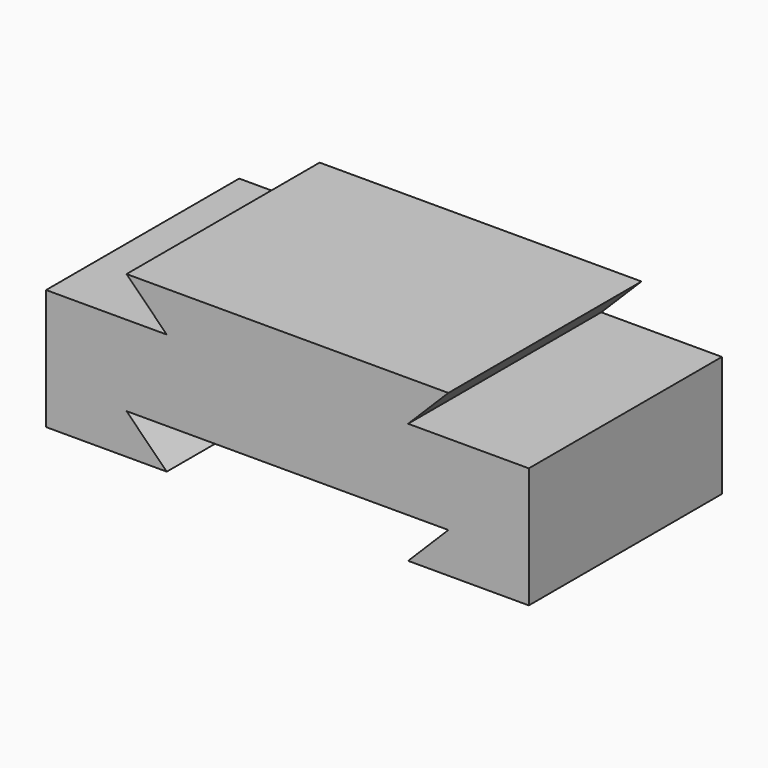
from build123d import *

# Parameters (mm, degrees)
F0_W     = 152.4
F0_H     = 50.8
F1_DEPTH = 76.2
F3_DEPTH = 76.2
F5_DEPTH = 76.2
F7_DEPTH = 76.2


with BuildPart() as f1:
    # F0 (on Front) → F1 (new body)
    with BuildSketch(Plane.XZ):
        with Locations((76.2, 25.4)):
            Rectangle(F0_W, F0_H)
    extrude(amount=F1_DEPTH)

    # F2 (on face) → F3 (cut)
    with BuildSketch(Plane.XZ.offset(76.2)):
        Polygon((25.4, 50.8), (0, 50.8), (0, 38.1), (38.1, 38.1), align=None)
    extrude(amount=-F3_DEPTH, mode=Mode.SUBTRACT)

    # F4 (on face) → F5 (cut)
    with BuildSketch(Plane.XZ.offset(76.2)):
        Polygon((152.4, 38.1), (152.4, 50.8), (127, 50.8), (114.3, 38.1), align=None)
    extrude(amount=-F5_DEPTH, mode=Mode.SUBTRACT)

    # F6 (on face) → F7 (cut)
    with BuildSketch(Plane.XZ.offset(76.2)):
        Polygon((25.4, 12.7), (38.1, 0), (114.3, 0), (127, 12.7), align=None)
    extrude(amount=-F7_DEPTH, mode=Mode.SUBTRACT)


solid = f1.part
